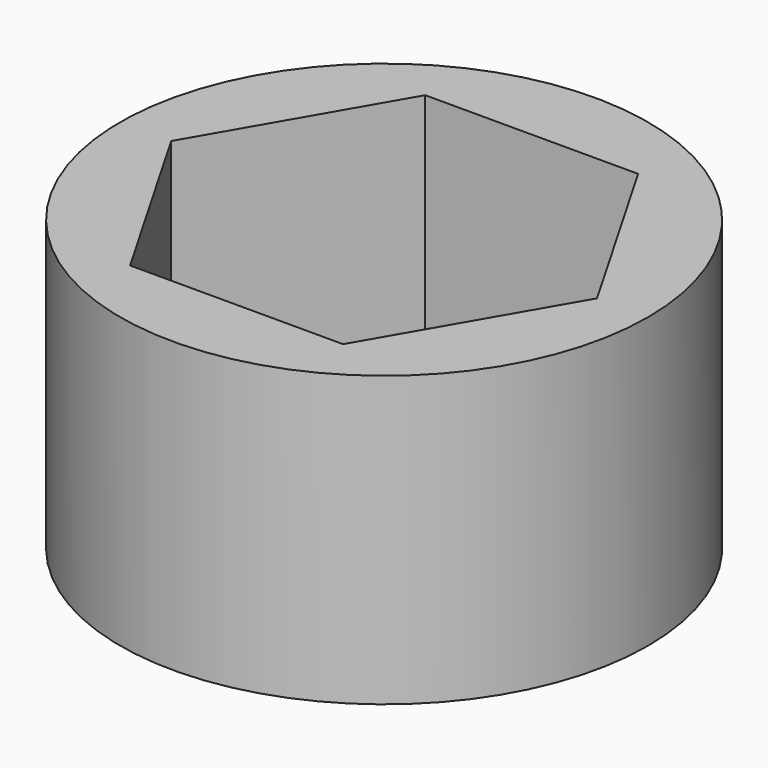
from build123d import *

# Parameters (mm, degrees)
SKETCH002_R = 7.3
PAD_DEPTH   = 8


with BuildPart() as part:
    # Sketch002 → Pad (new body)
    with BuildSketch(Plane(origin=(0, 0, 0), x_dir=(1, 0, 0), z_dir=(0, 0, -1))):
        with Locations((-32, 0)):
            Circle(SKETCH002_R)
        Polygon((-34.944486, 5.1), (-37.888973, 0), (-34.944486, -5.1), (-29.055514, -5.1), (-26.111027, 0), (-29.055514, 5.1), align=None, mode=Mode.SUBTRACT)
    extrude(amount=PAD_DEPTH)


solid = part.part
